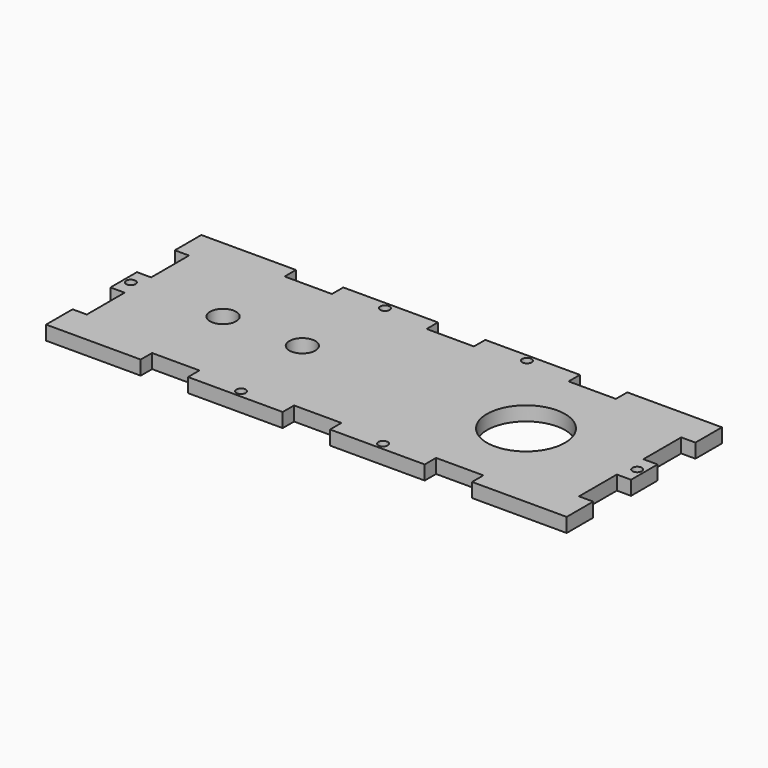
from build123d import *

# Parameters (mm, degrees)
F0_R     = 1
F0_R_2   = 2.75
F0_R_3   = 8.25
F1_DEPTH = 3


with BuildPart() as f1:
    # F0 (on Top) → F1 (new body)
    with BuildSketch(Plane.XY):
        Polygon((-35, 21.10829), (-55, 21.10829), (-55, 14.10829), (-52, 14.10829), (-52, 4.10829), (-55, 4.10829), (-55, 0.60829), (-55, -2.89171), (-52, -2.89171), (-52, -12.89171), (-55, -12.89171), (-55, -19.89171), (-35, -19.89171), (-35, -16.89171), (-25, -16.89171), (-25, -19.89171), (-5, -19.89171), (-5, -16.89171), (0, -16.89171), (5, -16.89171), (5, -19.89171), (25, -19.89171), (25, -16.89171), (35, -16.89171), (35, -19.89171), (55, -19.89171), (55, -12.89171), (52, -12.89171), (52, -2.89171), (55, -2.89171), (55, 0.60829), (55, 4.10829), (52, 4.10829), (52, 14.10829), (55, 14.10829), (55, 21.10829), (35, 21.10829), (35, 18.10829), (25, 18.10829), (25, 21.10829), (5, 21.10829), (5, 18.10829), (0, 18.10829), (-5, 18.10829), (-5, 21.10829), (-25, 21.10829), (-25, 18.10829), (-35, 18.10829), align=None)
        with Locations((-15, -18.39171)):
            Circle(F0_R, mode=Mode.SUBTRACT)
        with Locations((-53.5, 0.60829)):
            Circle(F0_R, mode=Mode.SUBTRACT)
        with Locations((-34, 0.60829)):
            Circle(F0_R_2, mode=Mode.SUBTRACT)
        with Locations((-17.25, 0.60829)):
            Circle(F0_R_2, mode=Mode.SUBTRACT)
        with Locations((15, -18.39171)):
            Circle(F0_R, mode=Mode.SUBTRACT)
        with Locations((53.5, 0.60829)):
            Circle(F0_R, mode=Mode.SUBTRACT)
        with Locations((-15, 19.60829)):
            Circle(F0_R, mode=Mode.SUBTRACT)
        with Locations((30, 0.60829)):
            Circle(F0_R_3, mode=Mode.SUBTRACT)
        with Locations((15, 19.60829)):
            Circle(F0_R, mode=Mode.SUBTRACT)
    extrude(amount=F1_DEPTH)


solid = f1.part
